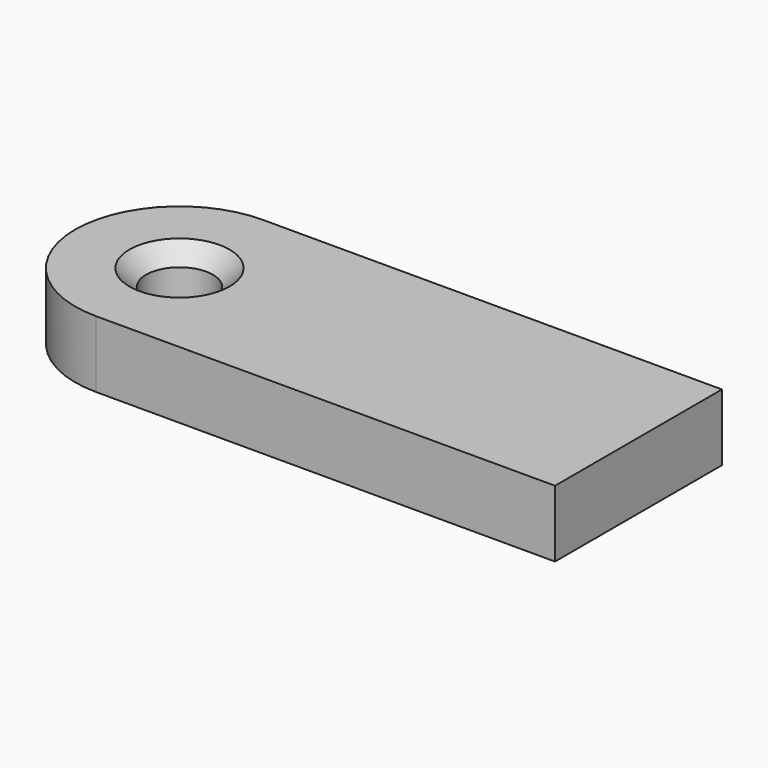
from build123d import *

# Parameters (mm, degrees)
CYLINDER004_R     = 2
CYLINDER004_DEPTH = 4
BOX006_W          = 27.5
BOX006_H          = 12.5
BOX006_DEPTH      = 4
TUBE001_R         = 6.25
TUBE001_DEPTH     = 4
CHAMFER_SIZE      = 1


with BuildPart() as obj1:
    # Cylinder004 → Cylinder004 (new body)
    with BuildSketch(Plane(origin=(-47.5, 0, 0), x_dir=(1, 0, 0), z_dir=(0, 0, 1))):
        Circle(CYLINDER004_R)
    extrude(amount=CYLINDER004_DEPTH)


with BuildPart() as arm001:
    # Box006 → Box006 (new body)
    with BuildSketch(Plane(origin=(-47.5, -6.25, 0), x_dir=(1, 0, 0), z_dir=(0, 0, 1))):
        with Locations((13.75, 6.25)):
            Rectangle(BOX006_W, BOX006_H)
    extrude(amount=BOX006_DEPTH)


with BuildPart() as chamfer_body:
    # Tube001 → Tube001 (new body)
    with BuildSketch(Plane(origin=(-47.5, 0, 0), x_dir=(1, 0, 0), z_dir=(0, 0, 1))):
        Circle(TUBE001_R)
    extrude(amount=TUBE001_DEPTH)

    # Fusion001: union Arm001
    add(arm001.part)

    # Cut001: cut obj1
    add(obj1.part, mode=Mode.SUBTRACT)

    # Chamfer
    chamfer_edges = [chamfer_body.edges().sort_by_distance(p)[0] for p in [
        (-46.085786, 1.414214, 4),
        (-49.5, 0, 4),
        (-46.085786, -1.414214, 4),
    ]]
    chamfer(chamfer_edges, length=CHAMFER_SIZE)


solid = chamfer_body.part
